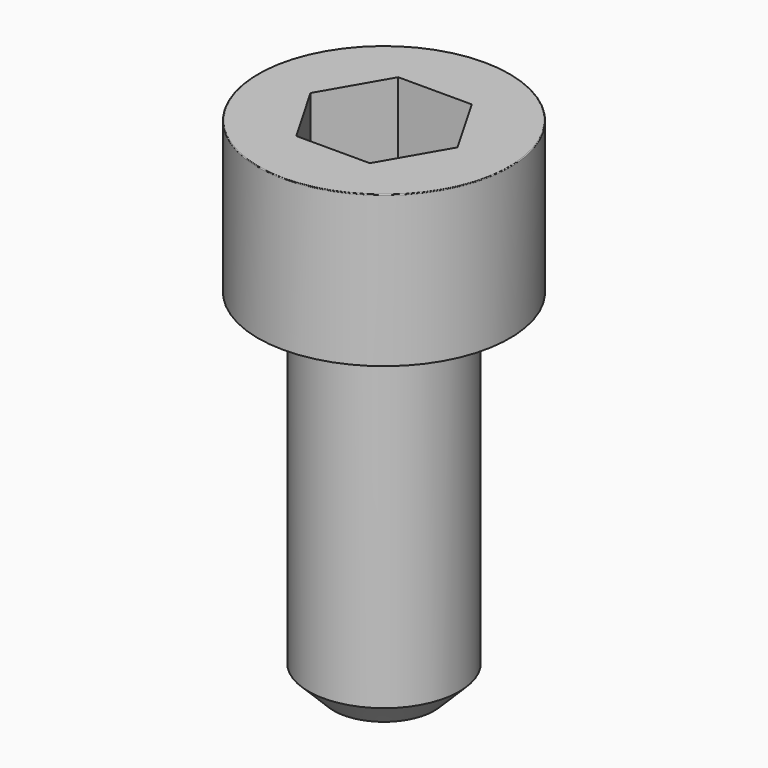
from build123d import *

# Parameters (mm, degrees)
POCKET_DEPTH = 5.06


with BuildPart() as part:
    # Sketch → Revolve (revolve)
    with BuildSketch(Plane.YZ):
        with BuildLine():
            Line((2.999, 0), (5, 0))
            Line((5, 0), (5, 5.97229))
            ThreePointArc((5, 5.97229), (4.991884, 5.991884), (4.97229, 6))
            Line((4.97229, 6), (0, 6))
            Line((0, -14), (0, 6))
            Line((2, -14), (0, -14))
            Line((3, -13), (2, -14))
            Line((3, -0.2), (3, -13))
            Line((2.999, 0), (3, -0.2))
        make_face()
    revolve(axis=Axis((0, 0, 0), (0, 0, 1)))

    # Sketch001 → Pocket (cut)
    with BuildSketch(Plane.XY.offset(6)):
        Polygon((2.921392, 0), (1.460696, 2.53), (-1.460696, 2.53), (-2.921392, 0), (-1.460696, -2.53), (1.460696, -2.53), align=None)
    extrude(amount=-POCKET_DEPTH, mode=Mode.SUBTRACT)


solid = part.part
